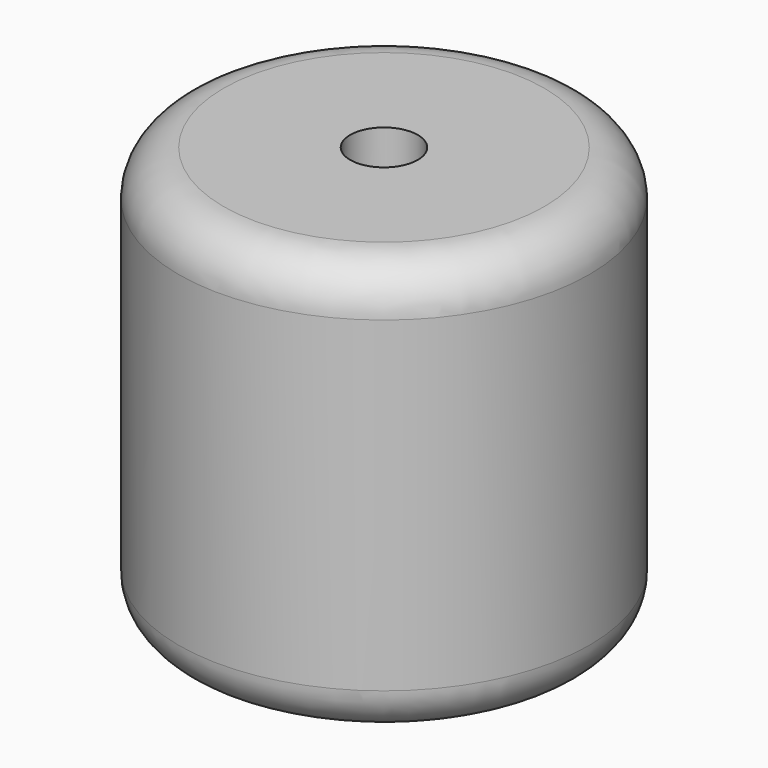
from build123d import *

# Parameters (mm, degrees)
F2_R     = 4.7625
F3_DEPTH = 9.525
F4_R     = 1.5875
F5_DEPTH = 17.145


with BuildPart() as f1:
    # F0 (on Front) → F1 (revolve)
    with BuildSketch(Plane.XZ):
        with BuildLine():
            Line((0, 63.5), (0, 0))
            Line((0, 0), (23.876184, 4.954478))
            ThreePointArc((23.876184, 4.954478), (27.511198, 7.163922), (28.935999, 11.172028))
            Line((28.935999, 11.172028), (28.935999, 57.15))
            ThreePointArc((28.935999, 57.15), (27.076127, 61.640128), (22.585999, 63.5))
            Line((22.585999, 63.5), (0, 63.5))
        make_face()
    revolve(axis=Axis((0, 0, 31.75), (0, 0, -1)))

    # F2 (on face) → F3 (cut)
    with BuildSketch(Plane.XY.offset(63.5)):
        Circle(F2_R)
    extrude(amount=-F3_DEPTH, mode=Mode.SUBTRACT)

    # F4 (on Top) → F5 (cut)
    with BuildSketch(Plane.XY):
        Circle(F4_R)
    extrude(amount=F5_DEPTH, mode=Mode.SUBTRACT)


solid = f1.part
